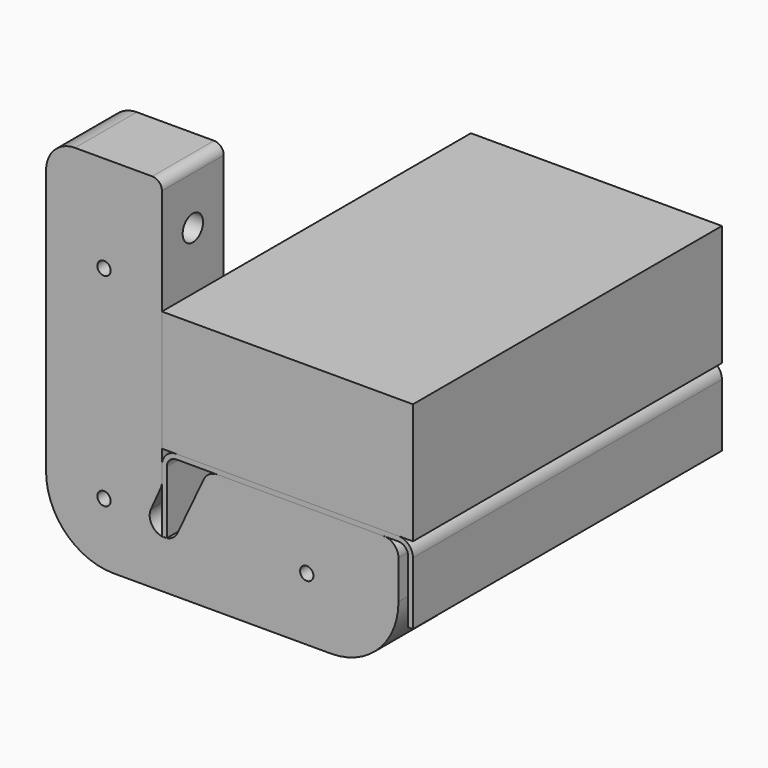
from build123d import *

# Parameters (mm, degrees)
F1_DEPTH        = 127
F2_W            = 82.55
F2_H            = 39.6875
F3_DEPTH        = 127
F4_R            = 3.96875
F5_DEPTH        = 25.4
F7_DEPTH        = 25.4
F8_R            = 22.225
F10_R           = 8.001
F11_DEPTH       = 25.4
F12_D           = 6.7564
F12_CSINK_D     = 13.4874
F12_CSINK_ANGLE = 82
F13_R           = 3.175
F14_R           = 9.525
F16_D           = 8.382
F16_CBORE_D     = 14.2875
F16_CBORE_DEPTH = 25.4
F17_R           = 5.08
F18_R           = 2.1844
F19_DEPTH       = 25.4010001


with BuildPart() as f1:
    # F0 (on Front) → F1 (new body)
    with BuildSketch(Plane.XZ):
        with BuildLine():
            Line((39.6875, -23.8125), (41.275, -23.8125))
            Line((41.275, -23.8125), (41.275, -3.175))
            ThreePointArc((41.275, -3.175), (39.8800960454, 0.1925960454), (36.5125, 1.5875))
            Line((36.5125, 1.5875), (-36.5125, 1.5875))
            ThreePointArc((-36.5125, 1.5875), (-39.8800960454, 0.1925960454), (-41.275, -3.175))
            Line((-41.275, -3.175), (-41.275, -23.8125))
            Line((-41.275, -23.8125), (-39.6875, -23.8125))
            Line((-39.6875, -23.8125), (-39.6875, -3.175))
            ThreePointArc((-39.6875, -3.175), (-38.7575640303, -0.9299359697), (-36.5125, 0))
            Line((-36.5125, 0), (36.5125, 0))
            ThreePointArc((36.5125, 0), (38.7575640303, -0.9299359697), (39.6875, -3.175))
            Line((39.6875, -3.175), (39.6875, -23.8125))
        make_face()
    extrude(amount=F1_DEPTH)

    # F4 (on face) → F5 (cut)
    with BuildSketch(Plane(origin=(0, 0, 0), x_dir=(1, 0, 0), z_dir=(0, 0, -1))):
        with Locations((-19.05, 107.95)):
            Circle(F4_R)
        with Locations((19.05, 107.95)):
            Circle(F4_R)
    extrude(amount=-F5_DEPTH, mode=Mode.SUBTRACT)


with BuildPart() as f3:
    # F2 (on face) → F3 (new body, through all)
    with BuildSketch(Plane.XZ.offset(127)):
        with Locations((0, 21.43125)):
            Rectangle(F2_W, F2_H)
    extrude(amount=-F3_DEPTH)


with BuildPart() as f7:
    # F6 (on face) → F7 (new body)
    with BuildSketch(Plane.XZ.offset(127)):
        with BuildLine():
            Line((-41.275, -3.175), (-41.275, 79.375))
            Line((-41.275, 79.375), (-79.375, 79.375))
            Line((-79.375, 79.375), (-79.375, -39.6875))
            Line((-79.375, -39.6875), (36.5125, -39.6875))
            Line((36.5125, -39.6875), (36.5125, -4.7625))
            ThreePointArc((36.5125, -4.7625), (35.1175960454, -1.3949039546), (31.75, 0))
            Line((31.75, 0), (-26.19375, 0))
            Line((-26.19375, 0), (-36.1136453021, -21.1051003173))
            ThreePointArc((-36.1136453021, -21.1051003173), (-37.5670779324, -22.8990239183), (-39.6875, -23.8125))
            ThreePointArc((-39.6875, -23.8125), (-40.48125, -23.8782230188), (-41.275, -23.8125))
            ThreePointArc((-41.275, -23.8125), (-44.7385710396, -21.3249952393), (-44.8782165057, -17.063011731))
            Line((-44.8782165057, -17.063011731), (-41.275, -9.0984368335))
            Line((-41.275, -9.0984368335), (-41.275, -3.175))
        make_face()
    extrude(amount=-F7_DEPTH)

    # F8
    f8_edges = [f7.edges().sort_by_distance(p)[0] for p in [
        (-79.375, -114.3, -39.6875),
        (36.5125, -114.3, -39.6875),
    ]]
    fillet(f8_edges, radius=F8_R)

    # F10 (on offset) → F11 (cut)
    with BuildSketch(Plane(origin=(0, 0, -23.8125), x_dir=(1, 0, 0), z_dir=(0, 0, -1))):
        with Locations((-19.05, 114.3)):
            Circle(F10_R)
        with Locations((19.05, 114.3)):
            Circle(F10_R)
    extrude(amount=F11_DEPTH, mode=Mode.SUBTRACT)

    # F12 (through all)
    with Locations(Plane(origin=(0, 0, -23.8125), x_dir=(1, 0, 0), z_dir=(0, 0, -1))):
        with Locations((-19.05, 114.3), (19.05, 114.3)):
            CounterSinkHole(F12_D / 2, F12_CSINK_D / 2, counter_sink_angle=F12_CSINK_ANGLE)

    # F13
    f13_edges = [f7.edges().sort_by_distance(p)[0] for p in [
        (-41.275, -114.3, 79.375),
    ]]
    fillet(f13_edges, radius=F13_R)

    # F14
    f14_edges = [f7.edges().sort_by_distance(p)[0] for p in [
        (-79.375, -114.3, 79.375),
    ]]
    fillet(f14_edges, radius=F14_R)

    # F16 (through all)
    with Locations(Plane(origin=(-79.375, 0, 0), x_dir=(0, -1, 0), z_dir=(-1, 0, 0))):
        with Locations((114.3, 60.325)):
            CounterBoreHole(F16_D / 2, F16_CBORE_D / 2, F16_CBORE_DEPTH)

    # F17
    f17_edges = [f7.edges().sort_by_distance(p)[0] for p in [
        (-41.275, -114.3, -9.098437),
        (-26.19375, -114.3, 0),
    ]]
    fillet(f17_edges, radius=F17_R)

    # F18 (on face) → F19 (cut, through all)
    with BuildSketch(Plane(origin=(0, -101.6, 0), x_dir=(-1, 0, 0), z_dir=(0, 1, 0))):
        with Locations((60.325, 47.625)):
            Circle(F18_R)
        with Locations((60.325, -19.05)):
            Circle(F18_R)
        with Locations((-6.35, -19.05)):
            Circle(F18_R)
    extrude(amount=-F19_DEPTH, mode=Mode.SUBTRACT)


solid = Compound([f1.part, f3.part, f7.part])
